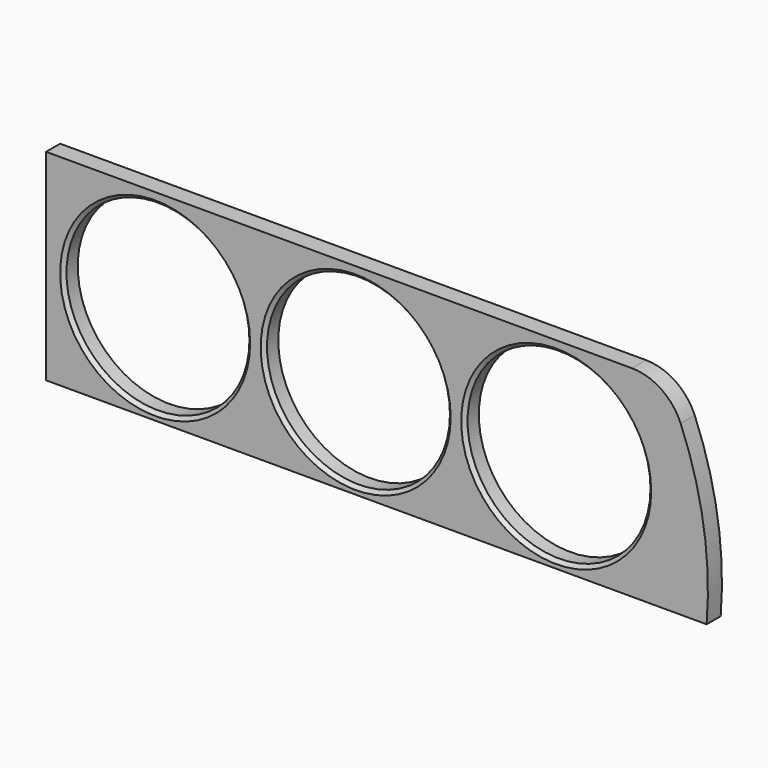
from build123d import *

# Parameters (mm, degrees)
F0_W     = 176
F0_H     = 57.188374
F0_R     = 26
F1_DEPTH = 5
F2_R     = 15
F3_SIZE  = 1


with BuildPart() as f1:
    # F0 (on Front) → F1 (new body)
    with BuildSketch(Plane.XZ):
        with Locations((0, 0.446782)):
            Rectangle(F0_W, F0_H)
        with Locations((-57, 0)):
            Circle(F0_R, mode=Mode.SUBTRACT)
        Circle(F0_R, mode=Mode.SUBTRACT)
        with Locations((57, 0)):
            Circle(F0_R, mode=Mode.SUBTRACT)
        with BuildLine():
            ThreePointArc((99.751152, -28.147405), (98.000731, 1.294425), (88, 29.040969))
            Line((88, 29.040969), (88, -28.147405))
            Line((88, -28.147405), (99.751152, -28.147405))
        make_face()
    extrude(amount=F1_DEPTH)

    # F2
    f2_edges = [f1.edges().sort_by_distance(p)[0] for p in [
        (88, -2.5, 29.040969),
    ]]
    fillet(f2_edges, radius=F2_R)

    # F3
    f3_edges = [f1.edges().sort_by_distance(p)[0] for p in [
        (-83, -5, 0),
        (-26, -5, 0),
        (31, -5, 0),
    ]]
    chamfer(f3_edges, length=F3_SIZE)


solid = f1.part
